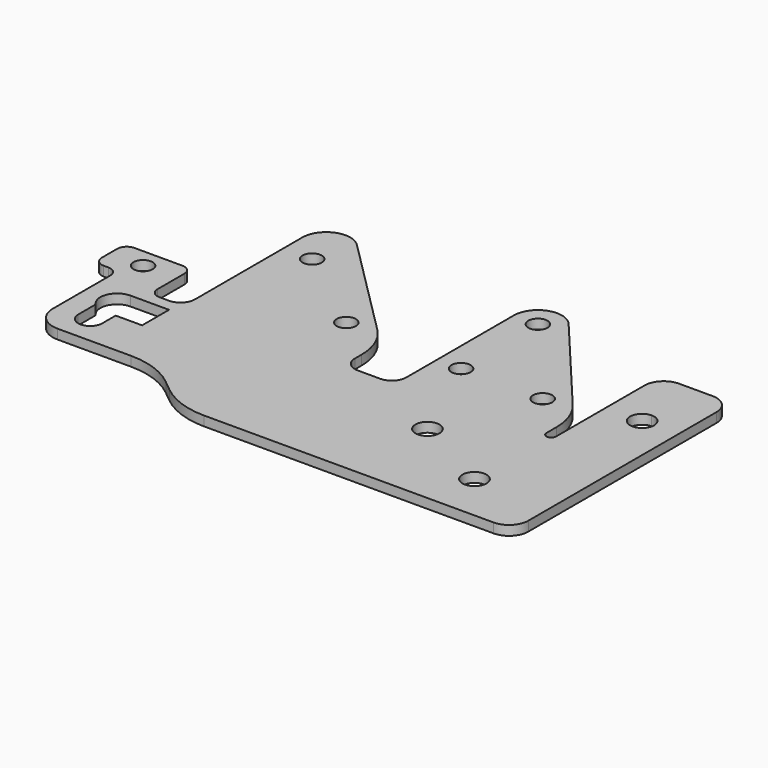
from build123d import *

# Parameters (mm, degrees)
F0_R     = 2
F0_R_2   = 2.5
F1_DEPTH = 2
F2_R     = 2
F3_R     = 5
F4_R     = 12
F5_R     = 5
F6_R     = 16


with BuildPart() as f1:
    # F0 (on Top) → F1 (new body)
    with BuildSketch(Plane.XY):
        Polygon((-40.6955056692, 2.5), (-31.6955056692, 2.5), (-31.6955056692, 9.2036510807), (-65, 42.5081454115), (-65, 34.5), (-65, 2.5), align=None)
        with Locations((-40.6955056692, 11.5)):
            Circle(F0_R, mode=Mode.SUBTRACT)
        with Locations((-59, 25.5)):
            Circle(F0_R, mode=Mode.SUBTRACT)
        with BuildLine():
            Line((-44, -28.5), (-26, -28.5))
            Line((-26, -28.5), (-26, -0.5))
            Line((-26, -0.5), (-28.6955056692, -0.5))
            ThreePointArc((-28.6955056692, -0.5), (-30.8168260127, 0.3786796564), (-31.6955056692, 2.5))
            Line((-31.6955056692, 2.5), (-40.6955056692, 2.5))
            Line((-40.6955056692, 2.5), (-65, 2.5))
            ThreePointArc((-65, 2.5), (-65.8786796564, 0.3786796564), (-68, -0.5))
            Line((-68, -0.5), (-68, -3))
            Line((-68, -3), (-66, -3))
            Line((-66, -3), (-66, -10))
            Line((-66, -10), (-68, -10))
            Line((-68, -10), (-68, -19.5))
            Line((-68, -19.5), (-55, -19.5))
            Line((-55, -19.5), (-44, -28.5))
        make_face()
        Polygon((-74, -3), (-68, -3), (-68, -0.5), (-72, -0.5), (-74, -0.5), align=None)
        with BuildLine():
            Line((-81, -19.5), (-68, -19.5))
            Line((-68, -19.5), (-68, -10))
            Line((-68, -10), (-71.5, -10))
            Line((-71.5, -10), (-71.5, -13.5))
            ThreePointArc((-71.5, -13.5), (-74, -16), (-76.5, -13.5))
            Line((-76.5, -13.5), (-76.5, -8.9494897428))
            ThreePointArc((-76.5, -8.9494897428), (-77.2267021942, -5.1441264992), (-74, -3))
            Line((-74, -3), (-74, -0.5))
            Line((-74, -0.5), (-81, -0.5))
            Line((-81, -0.5), (-81, -19.5))
        make_face()
        Polygon((-81, 2.5), (-81, -0.5), (-74, -0.5), (-72, -0.5), (-72, 10.5), (-86, 10.5), (-86, 2.5), align=None)
        with Locations((-79, 6.5)):
            Circle(F0_R, mode=Mode.SUBTRACT)
        with BuildLine():
            ThreePointArc((26, 24.5), (24.8284271247, 27.3284271247), (22, 28.5))
            Line((22, 28.5), (18.5, 28.5))
            Line((18.5, 28.5), (15, 28.5))
            ThreePointArc((15, 28.5), (12.1715728753, 27.3284271247), (11, 24.5))
            Line((11, 24.5), (11, 2.5))
            Line((11, 2.5), (11, 1.4913195046))
            ThreePointArc((11, 1.4913195046), (10, 0.4913195046), (9, 1.4913195046))
            Line((9, 1.4913195046), (9, 2.4990135962))
            Line((9, 2.4990135962), (9, 8.4837929157))
            Line((9, 8.4837929157), (-7.795591982, 28.5))
            Line((-7.795591982, 28.5), (-15.9371936145, 28.5))
            ThreePointArc((-15.9371936145, 28.5), (-16, 28.4990135962), (-16.0628063855, 28.5))
            Line((-16.0628063855, 28.5), (-21, 28.5))
            Line((-21, 28.5), (-21, 10.4990135962))
            Line((-21, 10.4990135962), (-21, 2.4990135962))
            ThreePointArc((-21, 2.4990135962), (-21.8516547202, 0.4050669496), (-23.9230750393, -0.5))
            ThreePointArc((-23.9230750393, -0.5), (-24, -0.5009864038), (-24.0769249607, -0.5))
            Line((-24.0769249607, -0.5), (-26, -0.5))
            Line((-26, -0.5), (-26, -28.5))
            Line((-26, -28.5), (-7, -28.5))
            Line((-7, -28.5), (9, -28.5))
            Line((9, -28.5), (10, -28.5))
            Line((10, -28.5), (11, -28.5))
            Line((11, -28.5), (22, -28.5))
            ThreePointArc((22, -28.5), (24.8284271247, -27.3284271247), (26, -24.5))
            Line((26, -24.5), (26, 24.5))
        make_face()
        with BuildLine():
            ThreePointArc((12.5, -18.5), (11.767766953, -20.267766953), (10, -21))
            ThreePointArc((10, -21), (8.232233047, -16.732233047), (12.5, -18.5))
        make_face(mode=Mode.SUBTRACT)
        with Locations((-7, -9.5)):
            Circle(F0_R_2, mode=Mode.SUBTRACT)
        with BuildLine():
            ThreePointArc((-14, 10.4990135962), (-16, 8.4990135962), (-18, 10.4990135962))
            ThreePointArc((-18, 10.4990135962), (-16, 12.4990135962), (-14, 10.4990135962))
        make_face(mode=Mode.SUBTRACT)
        with BuildLine():
            ThreePointArc((3, 10.4990135962), (1, 8.4990135962), (-1, 10.4990135962))
            ThreePointArc((-1, 10.4990135962), (1, 12.4990135962), (3, 10.4990135962))
        make_face(mode=Mode.SUBTRACT)
        with BuildLine():
            ThreePointArc((21, 14.5), (16.732233047, 12.732233047), (18.5, 17))
            ThreePointArc((18.5, 17), (20.267766953, 16.267766953), (21, 14.5))
        make_face(mode=Mode.SUBTRACT)
        with BuildLine():
            Line((-15.9371936145, 28.5), (-7.795591982, 28.5))
            Line((-7.795591982, 28.5), (-12.1697777844, 33.7129516447))
            ThreePointArc((-12.1697777844, 33.7129516447), (-17.7101007166, 35.1974767002), (-21, 30.4990135962))
            Line((-21, 30.4990135962), (-21, 28.5))
            Line((-21, 28.5), (-16.0628063855, 28.5))
            ThreePointArc((-16.0628063855, 28.5), (-17.3918310294, 31.9352609236), (-14, 30.4990135962))
            ThreePointArc((-14, 30.4990135962), (-14.5637526726, 29.1071825668), (-15.9371936145, 28.5))
        make_face()
    extrude(amount=F1_DEPTH)

    # F2
    f2_edges = [f1.edges().sort_by_distance(p)[0] for p in [
        (-72, 10.5, 1),
        (-86, 10.5, 1),
        (-86, 2.5, 1),
        (-81, 2.5, 1),
        (-72, -0.5, 1),
    ]]
    fillet(f2_edges, radius=F2_R)

    # F3
    f3_edges = [f1.edges().sort_by_distance(p)[0] for p in [
        (-65, 42.508145, 1),
    ]]
    fillet(f3_edges, radius=F3_R)

    # F4
    f4_edges = [f1.edges().sort_by_distance(p)[0] for p in [
        (-31.695506, 9.203651, 1),
        (9, 8.483793, 1),
    ]]
    fillet(f4_edges, radius=F4_R)

    # F5
    f5_edges = [f1.edges().sort_by_distance(p)[0] for p in [
        (-81, -19.5, 1),
    ]]
    fillet(f5_edges, radius=F5_R)

    # F6
    f6_edges = [f1.edges().sort_by_distance(p)[0] for p in [
        (-55, -19.5, 1),
        (-44, -28.5, 1),
    ]]
    fillet(f6_edges, radius=F6_R)


solid = f1.part
